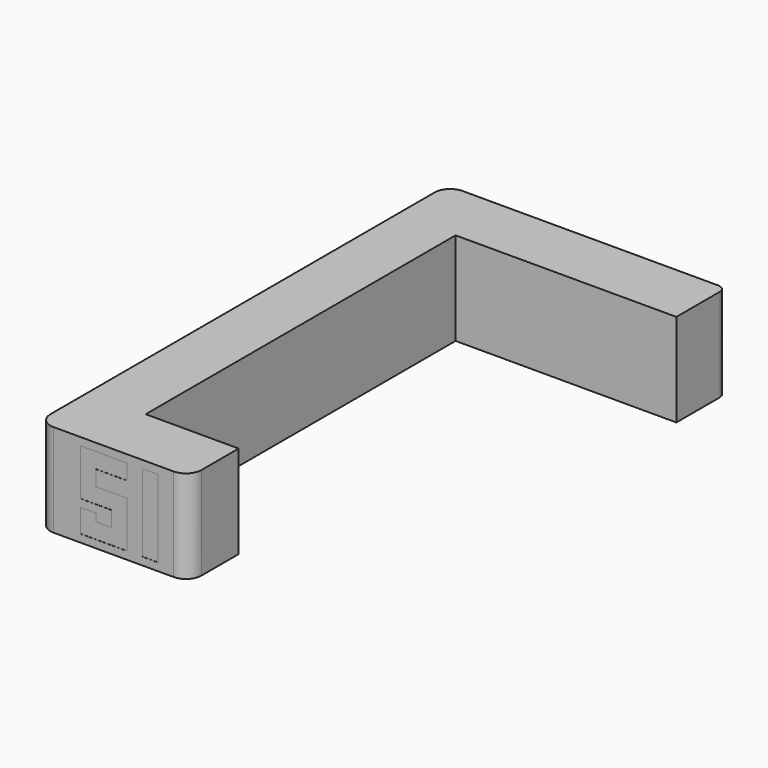
from build123d import *

# Parameters (mm, degrees)
F1_DEPTH  = 19.05
F2_W      = 3.175
F2_H      = 15.875
F3_DEPTH  = 3.175
F4_W      = 3.175
F4_H      = 15.875
F5_DEPTH  = 3.175
F6_W      = 12.7
F6_H      = 19.05
F7_DEPTH  = 0.79375
F8_DEPTH  = 0.79375
F9_DEPTH  = 0.79375
F10_DEPTH = 0.79375
F11_R     = 3.175
F12_DEPTH = 3.1496
F13_DEPTH = 3.1496
F14_R     = 1.5875
F16_DEPTH = 3.175
F17_DEPTH = 3.1496


with BuildPart() as f1:
    # F0 (on Top) → F1 (new body)
    with BuildSketch(Plane.XY):
        Polygon((-44.4190271638, -24.6665028805), (-101.5690271638, -24.6665028805), (-101.5690271638, -129.4415028805), (-69.8190271638, -129.4415028805), (-69.8190271638, -116.7415028805), (-88.8690271638, -116.7415028805), (-88.8690271638, -37.3665028805), (-44.4190271638, -37.3665028805), align=None)
    extrude(amount=F1_DEPTH)

    # F2 (on face) → F3 (cut)
    with BuildSketch(Plane(origin=(-101.5690271638, 0, 0), x_dir=(0, -1, 0), z_dir=(-1, 0, 0))):
        Polygon((64.3540028805, 14.2875), (64.3540028805, 17.4625), (54.8290028805, 17.4625), (54.8290028805, 7.9375), (61.1790028805, 7.9375), (61.1790028805, 4.7625), (58.0040028805, 4.7625), (58.0040028805, 6.35), (54.8290028805, 6.35), (54.8290028805, 1.5875), (64.3540028805, 1.5875), (64.3540028805, 11.1125), (58.0040028805, 11.1125), (58.0040028805, 14.2875), align=None)
        with Locations((69.1165028805, 9.525)):
            Rectangle(F2_W, F2_H)
        Polygon((84.9915028805, 7.9375), (84.9915028805, 17.4625), (80.0976173637, 17.4625), (73.8790028805, 7.9375), (73.8790028805, 4.7625), (81.8165028805, 4.7625), (81.8165028805, 1.5875), (84.9915028805, 1.5875), (84.9915028805, 4.7625), (86.5790028805, 4.7625), (86.5790028805, 7.9375), align=None)
        Polygon((81.8165028805, 14.2875), (81.8165028805, 7.9375), (77.6707598918, 7.9375), align=None, mode=Mode.SUBTRACT)
        Polygon((99.2790028805, 14.2875), (99.2790028805, 17.4625), (89.7540028805, 17.4625), (89.7540028805, 7.9375), (96.1040028805, 7.9375), (96.1040028805, 4.7625), (92.9290028805, 4.7625), (92.9290028805, 6.35), (89.7540028805, 6.35), (89.7540028805, 1.5875), (99.2790028805, 1.5875), (99.2790028805, 11.1125), (92.9290028805, 11.1125), (92.9290028805, 14.2875), align=None)
    extrude(amount=-F3_DEPTH, mode=Mode.SUBTRACT)

    # F4 (on face) → F5 (cut)
    with BuildSketch(Plane.XZ.offset(129.4415028805)):
        Polygon((-82.5190271638, 14.2875), (-82.5190271638, 17.4625), (-92.0440271638, 17.4625), (-92.0440271638, 7.9375), (-85.6940271638, 7.9375), (-85.6940271638, 4.7625), (-88.8690271638, 4.7625), (-88.8690271638, 6.35), (-92.0440271638, 6.35), (-92.0440271638, 1.5875), (-82.5190271638, 1.5875), (-82.5190271638, 11.1125), (-88.8690271638, 11.1125), (-88.8690271638, 14.2875), align=None)
        with Locations((-77.7565271638, 9.525)):
            Rectangle(F4_W, F4_H)
    extrude(amount=-F5_DEPTH, mode=Mode.SUBTRACT)

    # F6 (on face) → F7 (join)
    with BuildSketch(Plane.YZ.offset(-44.4190271638)):
        with Locations((-31.0165028805, 9.525)):
            Rectangle(F6_W, F6_H)
    extrude(amount=F7_DEPTH)

    # F8 (cut): a face of the model
    f8_faces = [f1.faces().sort_by_distance(p)[0] for p in [
        (-101.5690271638, -25.7314302548, 9.525),
    ]]
    extrude(f8_faces, amount=-F8_DEPTH, mode=Mode.SUBTRACT)

    # F9 (cut): faces of the model
    f9_faces = [f1.faces().sort_by_distance(p)[0] for p in [
        (-98.3940271638, -59.4534594023, 9.3524456522),
        (-98.3940271638, -69.1165028805, 9.525),
        (-98.3940271638, -84.788203686, 12.7),
        (-98.3940271638, -94.3784594023, 9.3524456522),
    ]]
    extrude(f9_faces, amount=-F9_DEPTH, mode=Mode.SUBTRACT)

    # F10 (cut): a face of the model
    f10_faces = [f1.faces().sort_by_distance(p)[0] for p in [
        (-101.5690271638, -80.4345885509, 10.0541666667),
    ]]
    extrude(f10_faces, amount=-F10_DEPTH, mode=Mode.SUBTRACT)

    # F11
    f11_edges = [f1.edges().sort_by_distance(p)[0] for p in [
        (-100.775277, -24.666503, 9.525),
        (-100.775277, -129.441503, 9.525),
        (-69.819027, -129.441503, 9.525),
    ]]
    fillet(f11_edges, radius=F11_R)


with BuildPart() as f12:
    # F12 (new): a face of the model
    f12_faces = [f1.part.faces().sort_by_distance(p)[0] for p in [
        (-97.6002771638, -59.4534594023, 9.3524456522),
    ]]
    extrude(f12_faces, amount=F12_DEPTH)


with BuildPart() as f12b:
    # F12#2 (new): a face of the model
    f12_2_faces = [f1.part.faces().sort_by_distance(p)[0] for p in [
        (-97.6002771638, -69.1165028805, 9.525),
    ]]
    extrude(f12_2_faces, amount=F12_DEPTH)


with BuildPart() as f12c:
    # F12#3 (new): a face of the model
    f12_3_faces = [f1.part.faces().sort_by_distance(p)[0] for p in [
        (-97.6002771638, -84.788203686, 12.7),
    ]]
    extrude(f12_3_faces, amount=F12_DEPTH)


with BuildPart() as f12d:
    # F12#4 (new): a face of the model
    f12_4_faces = [f1.part.faces().sort_by_distance(p)[0] for p in [
        (-97.6002771638, -94.3784594023, 9.3524456522),
    ]]
    extrude(f12_4_faces, amount=F12_DEPTH)


with BuildPart() as f13:
    # F13 (new): a face of the model
    f13_faces = [f1.part.faces().sort_by_distance(p)[0] for p in [
        (-87.4195706421, -126.2665028805, 9.3524456522),
    ]]
    extrude(f13_faces, amount=F13_DEPTH)


with BuildPart() as f13b:
    # F13#2 (new): a face of the model
    f13_2_faces = [f1.part.faces().sort_by_distance(p)[0] for p in [
        (-77.7565271638, -126.2665028805, 9.525),
    ]]
    extrude(f13_2_faces, amount=F13_DEPTH)


with BuildPart() as f1_1:
    add(f1.part)

    # F14
    f14_edges = [f1_1.edges().sort_by_distance(p)[0] for p in [
        (-43.625277, -24.666503, 9.525),
    ]]
    fillet(f14_edges, radius=F14_R)

    # F15 (on face) → F16 (cut)
    with BuildSketch(Plane(origin=(0, -24.6665028805, 0), x_dir=(-1, 0, 0), z_dir=(0, 1, 0))):
        Polygon((49.5125167512, 17.4625), (45.2127771638, 7.9375), (45.2127771638, 4.7625), (51.5627771638, 4.7625), (51.5627771638, 1.5875), (54.7377771638, 1.5875), (54.7377771638, 4.7625), (56.3252771638, 4.7625), (56.3252771638, 7.9375), (54.7377771638, 7.9375), (54.7377771638, 17.4625), align=None)
        Polygon((51.5627771638, 14.2875), (51.5627771638, 7.9375), (48.6962841056, 7.9375), align=None, mode=Mode.SUBTRACT)
        Polygon((69.0252771638, 14.2875), (69.0252771638, 17.4625), (59.5002771638, 17.4625), (59.5002771638, 7.9375), (65.8502771638, 7.9375), (65.8502771638, 4.7625), (62.6752771638, 4.7625), (62.6752771638, 6.35), (59.5002771638, 6.35), (59.5002771638, 1.5875), (69.0252771638, 1.5875), (69.0252771638, 11.1125), (62.6752771638, 11.1125), (62.6752771638, 14.2875), align=None)
    extrude(amount=-F16_DEPTH, mode=Mode.SUBTRACT)


with BuildPart() as f17:
    # F17 (new): a face of the model
    f17_faces = [f1_1.part.faces().sort_by_distance(p)[0] for p in [
        (-47.5392645325, -27.8415028805, 12.6202719602),
    ]]
    extrude(f17_faces, amount=F17_DEPTH)


with BuildPart() as f17b:
    # F17#2 (new): a face of the model
    f17_2_faces = [f1_1.part.faces().sort_by_distance(p)[0] for p in [
        (-64.1247336856, -27.8415028805, 9.3524456522),
    ]]
    extrude(f17_2_faces, amount=F17_DEPTH)


solid = Compound([f12.part, f12b.part, f12c.part, f12d.part, f13.part, f13b.part, f1_1.part, f17.part, f17b.part])
